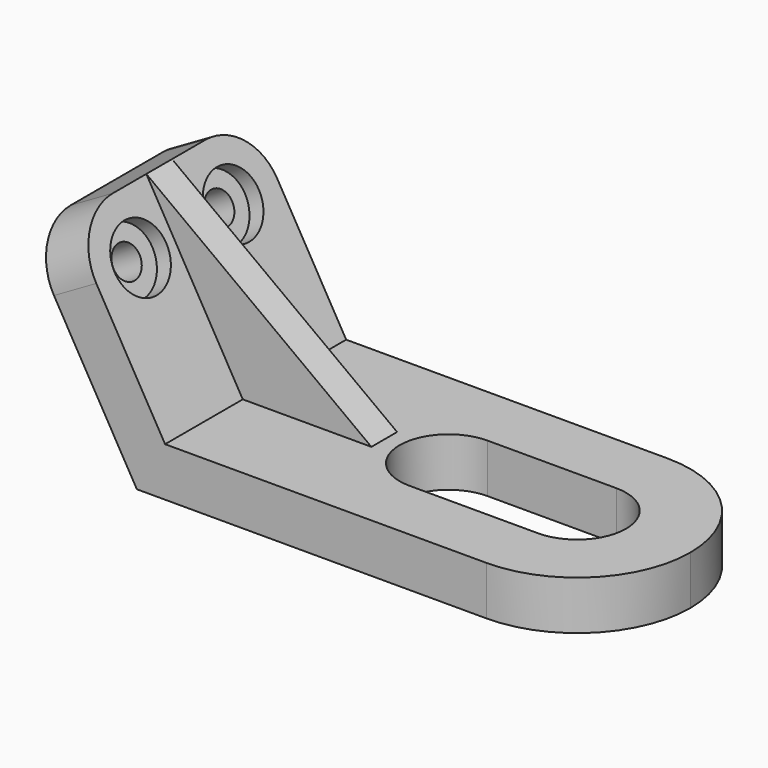
from build123d import *

# Parameters (mm, degrees)
F1_DEPTH  = 22.352
F2_DEPTH  = 3.175
F4_DEPTH  = 25.4
F6_R      = 6.35
F7_DEPTH  = 3.175
F8_R      = 6.35
F9_DEPTH  = 3.175
F5_R      = 3.175
F10_DEPTH = 25.4
F11_R     = 10.922


with BuildPart() as f1:
    # F0 (on Front) → F1 (new body, symmetric)
    with BuildSketch(Plane.XZ):
        Polygon((-21.8362923991, 37.8215678842), (0, 0), (91.4245847982, 0), (91.4245847982, 9.652), (30.9725847982, 9.652), (5.5725847982, 9.652), (-13.4774152018, 42.6475678842), align=None)
    extrude(amount=F1_DEPTH, both=True)

    # F0 (on Front) → F2 (join, symmetric)
    with BuildSketch(Plane.XZ):
        Polygon((30.9725847982, 9.652), (-13.4774152018, 42.6475678842), (5.5725847982, 9.652), align=None)
    extrude(amount=F2_DEPTH, both=True)

    # F3 (on face) → F4 (cut)
    with BuildSketch(Plane.XY.offset(9.652)):
        with BuildLine():
            Line((91.4245847982, 22.352), (69.0725847982, 22.352))
            ThreePointArc((69.0725847982, 22.352), (84.8778355713, 15.8052507731), (91.4245847982, 0))
            Line((91.4245847982, 0), (91.4245847982, 22.352))
        make_face()
        with BuildLine():
            ThreePointArc((91.4245847982, 0), (84.8778355713, -15.8052507731), (69.0725847982, -22.352))
            Line((69.0725847982, -22.352), (91.4245847982, -22.352))
            Line((91.4245847982, -22.352), (91.4245847982, 0))
        make_face()
        with BuildLine():
            Line((48.9119598079, -9.652), (69.0725847982, -9.652))
            ThreePointArc((69.0725847982, -9.652), (78.7245847982, 0), (69.0725847982, 9.652))
            Line((69.0725847982, 9.652), (48.9119598079, 9.652))
            ThreePointArc((48.9119598079, 9.652), (46.7205847982, 0), (48.9119598079, -9.652))
        make_face()
        with BuildLine():
            Line((43.6725847982, -9.652), (48.9119598079, -9.652))
            ThreePointArc((48.9119598079, -9.652), (46.7205847982, 0), (48.9119598079, 9.652))
            Line((48.9119598079, 9.652), (43.6725847982, 9.652))
            ThreePointArc((43.6725847982, 9.652), (34.0205847982, 0), (43.6725847982, -9.652))
        make_face()
    extrude(amount=-F4_DEPTH, mode=Mode.SUBTRACT)

    # F6 (on face) → F7 (cut)
    with BuildSketch(Plane(origin=(8.3588771973, 0, 4.826), x_dir=(0, 1, 0), z_dir=(0.8660254038, 0, 0.5))):
        with Locations((11.43, 32.7505847982)):
            Circle(F6_R)
    extrude(amount=-F7_DEPTH, mode=Mode.SUBTRACT)

    # F8 (on face) → F9 (cut)
    with BuildSketch(Plane(origin=(8.3588771973, 0, 4.826), x_dir=(0, 1, 0), z_dir=(0.8660254038, 0, 0.5))):
        with Locations((-11.43, 32.7505847982)):
            Circle(F8_R)
    extrude(amount=-F9_DEPTH, mode=Mode.SUBTRACT)

    # F5 (on face) → F10 (cut)
    with BuildSketch(Plane(origin=(0, 0, 0), x_dir=(0, -1, 0), z_dir=(-0.8660254038, 0, -0.5))):
        with Locations((-11.43, 32.7505847982)):
            Circle(F5_R)
        with Locations((11.43, 32.7505847982)):
            Circle(F5_R)
    extrude(amount=-F10_DEPTH, mode=Mode.SUBTRACT)

    # F11
    f11_edges = [f1.edges().sort_by_distance(p)[0] for p in [
        (-17.656854, -22.352, 40.234568),
        (-17.656854, 22.352, 40.234568),
    ]]
    fillet(f11_edges, radius=F11_R)


solid = f1.part
